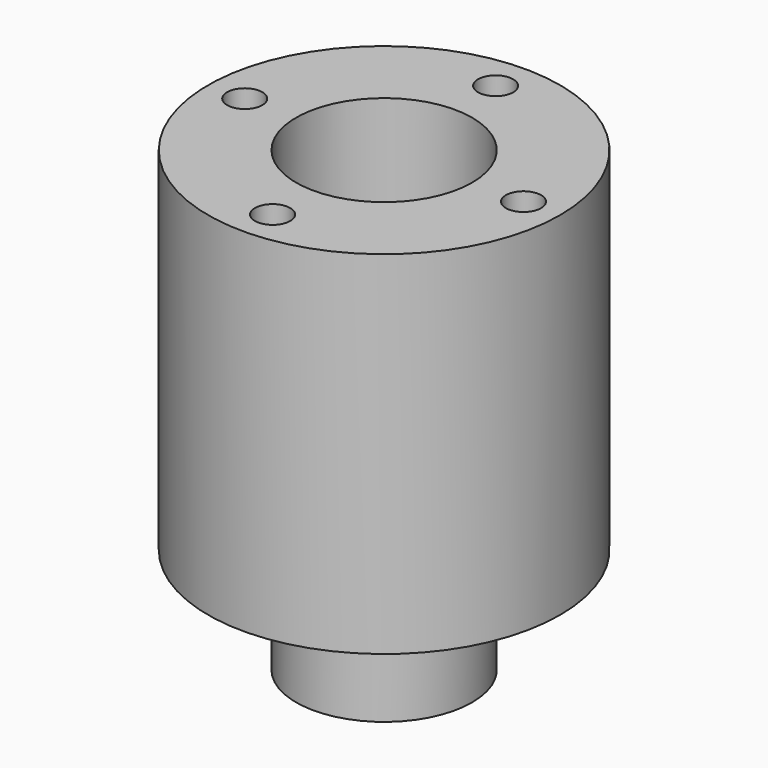
from build123d import *

# Parameters (mm, degrees)
F0_R     = 12.7
F0_R_2   = 1.27
F0_R_3   = 6.35
F1_DEPTH = 25.4
F0_R_4   = 4.0005
F2_DEPTH = 7.62


with BuildPart() as f1:
    # F0 (on Top) → F1 (new body)
    with BuildSketch(Plane.XY):
        Circle(F0_R)
        with Locations((0, -10.05864)):
            Circle(F0_R_2, mode=Mode.SUBTRACT)
        with Locations((-10.05864, 0)):
            Circle(F0_R_2, mode=Mode.SUBTRACT)
        Circle(F0_R_3, mode=Mode.SUBTRACT)
        with Locations((10.05864, 0)):
            Circle(F0_R_2, mode=Mode.SUBTRACT)
        with Locations((0, 10.05864)):
            Circle(F0_R_2, mode=Mode.SUBTRACT)
    extrude(amount=F1_DEPTH)

    # F0 (on Top) → F2 (join)
    with BuildSketch(Plane.XY):
        Circle(F0_R_3)
        Circle(F0_R_4, mode=Mode.SUBTRACT)
    extrude(amount=-F2_DEPTH)


solid = f1.part
